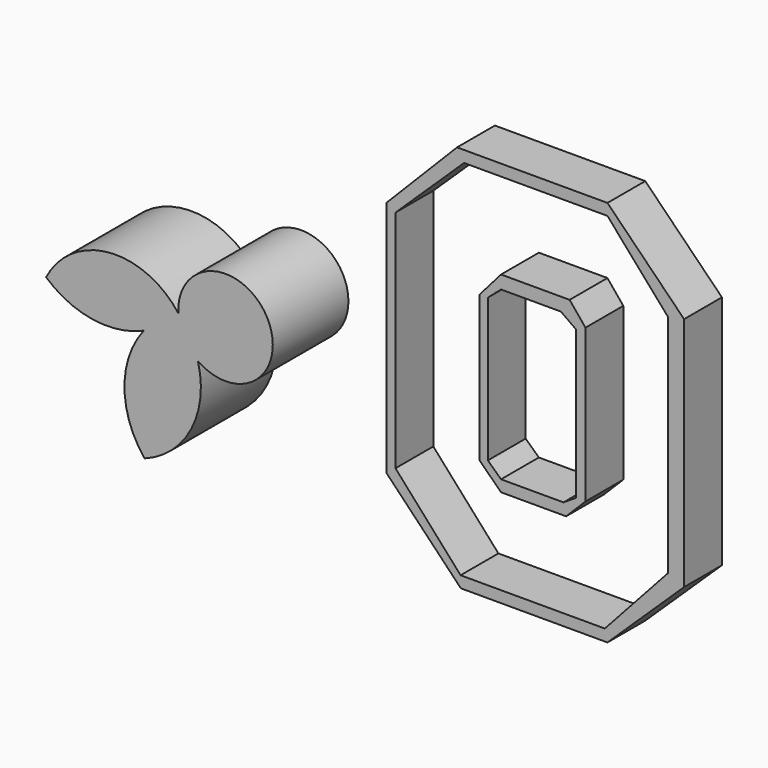
from build123d import *

# Parameters (mm, degrees)
F1_DEPTH = 6.35
F3_DEPTH = 6.35
F5_DEPTH = 12.7


with BuildPart() as f1:
    # F0 (on Front) → F1 (new body, symmetric)
    with BuildSketch(Plane.XZ):
        Polygon((34.3566909432, 51.5392869711), (-6.0458299704, 51.5392869711), (-25.0216538746, 32.2574027531), (-25.0216538746, -31.6276848316), (-5.0335519168, -52.4153076112), (34.3566909432, -52.4153076112), (54.9463386749, -32.6175663062), (54.9463386749, 30.7481326163), align=None)
        Polygon((-22.5848723203, -29.7375079244), (-22.5848723203, 30.7481326163), (-4.1556539945, 48.4685376287), (34.3566909432, 48.4685376287), (50.6594628096, 29.803045094), (50.6594628096, -30.6825973094), (33.6478725076, -49.3480861187), (-5.1007419825, -49.3480861187), align=None, mode=Mode.SUBTRACT)
    extrude(amount=F1_DEPTH, both=True)


with BuildPart() as f3:
    # F0 (on Front) → F3 (new body, symmetric)
    with BuildSketch(Plane.XZ):
        Polygon((5.7677729055, 25.3138765693), (0, 18.6982583255), (0, -20.5228980631), (5.7677729055, -26.193426922), (23.251902312, -26.193426922), (28.4498855472, -20.9954436868), (28.4498855472, 20.1158914715), (24.1969898343, 25.3138765693), align=None)
        Polygon((2.2236907389, -19.8140833527), (2.2236907389, 18.6982583255), (5.7677729055, 21.7697955668), (21.834269166, 21.7697955668), (25.8508939296, 18.9345311373), (25.8508939296, -20.9954436868), (22.543085739, -23.1218915433), (5.7677729055, -23.1218915433), align=None, mode=Mode.SUBTRACT)
    extrude(amount=F3_DEPTH, both=True)


with BuildPart() as f5:
    # F4 (on Front) → F5 (new body, symmetric)
    with BuildSketch(Plane.XZ):
        with BuildLine():
            ThreePointArc((-70.5872171951, -17.365179622), (-57.3786496576, -18.3574782535), (-50.471133399, -7.0553929545))
            ThreePointArc((-50.471133399, -7.0553929545), (-63.5452750609, 5.6390947475), (-75.8490889922, -7.8033514939))
            ThreePointArc((-75.8490889922, -7.8033514939), (-72.6455367951, -12.2691549419), (-70.5872171951, -17.365179622))
        make_face()
        with BuildLine():
            ThreePointArc((-70.5872171951, -17.365179622), (-72.6455367951, -12.2691549419), (-75.8490889922, -7.8033514939))
            ThreePointArc((-75.8490889922, -7.8033514939), (-74.297666733, -13.1783216628), (-70.5872171951, -17.365179622))
        make_face()
        with BuildLine():
            ThreePointArc((-85.127376563, -14.9462799828), (-80.0566259567, -11.9354502468), (-75.8490889922, -7.8033514939))
            ThreePointArc((-75.8490889922, -7.8033514939), (-80.9289877446, -10.8022982704), (-85.127376563, -14.9462799828))
        make_face()
        with BuildLine():
            ThreePointArc((-70.5872171951, -17.365179622), (-74.297666733, -13.1783216628), (-75.8490889922, -7.8033514939))
            ThreePointArc((-75.8490889922, -7.8033514939), (-80.0566259567, -11.9354502468), (-85.127376563, -14.9462799828))
            ThreePointArc((-85.127376563, -14.9462799828), (-90.31966165, -30.0592863686), (-84.9081575871, -45.0951904058))
            ThreePointArc((-84.9081575871, -45.0951904058), (-72.3589466512, -34.013156702), (-70.5872171951, -17.365179622))
        make_face()
        with BuildLine():
            ThreePointArc((-85.127376563, -14.9462799828), (-80.9289877446, -10.8022982704), (-75.8490889922, -7.8033514939))
            ThreePointArc((-75.8490889922, -7.8033514939), (-94.4479506859, 0.4979120726), (-111.3706231117, -10.8357453719))
            ThreePointArc((-111.3706231117, -10.8357453719), (-98.8521762917, -16.7419250046), (-85.127376563, -14.9462799828))
        make_face()
    extrude(amount=F5_DEPTH, both=True)


solid = Compound([f1.part, f3.part, f5.part])
